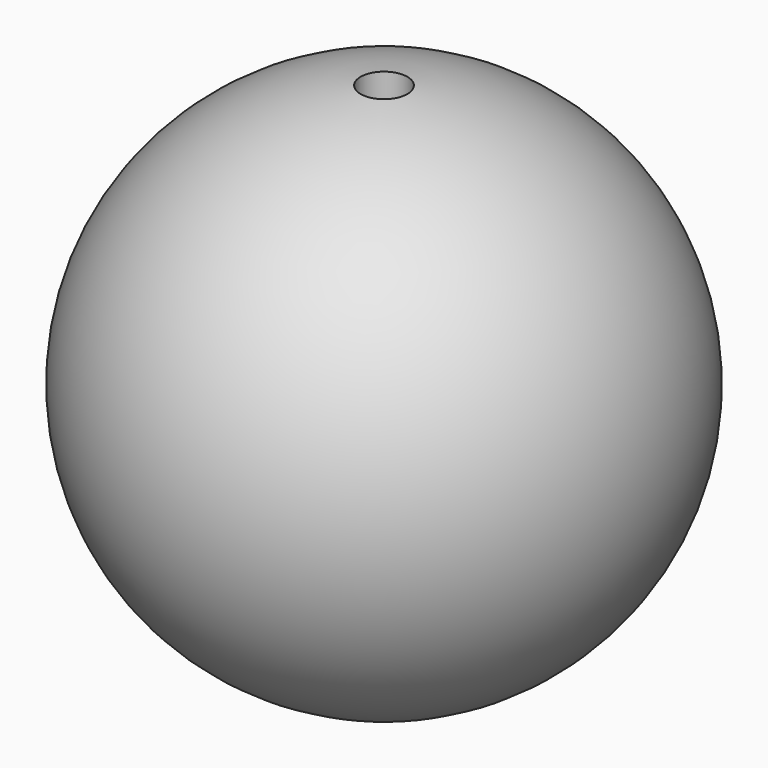
from build123d import *

# Parameters (mm, degrees)
F0_W = 6.35
F0_H = 75.9349557187
F3_D = 13.4874


with BuildPart() as f1:
    # F0 (on Front) → F1 (revolve)
    with BuildSketch(Plane.XZ):
        with Locations((-3.175, 37.9674778593)):
            Rectangle(F0_W, F0_H)
        with Locations((-3.175, -37.9674778593)):
            Rectangle(F0_W, F0_H)
        with BuildLine():
            Line((-6.35, 0), (-6.35, 75.9349557187))
            ThreePointArc((-6.35, 75.9349557187), (-76.2, 0), (-6.35, -75.9349557187))
            Line((-6.35, -75.9349557187), (-6.35, 0))
        make_face()
    revolve(axis=Axis((0, 0, 0), (0, 0, -1)))

    # F3 (through all)
    with Locations(Plane.XY.offset(75.9349557187)):
        with Locations((0, 0)):
            Hole(F3_D / 2)


solid = f1.part
